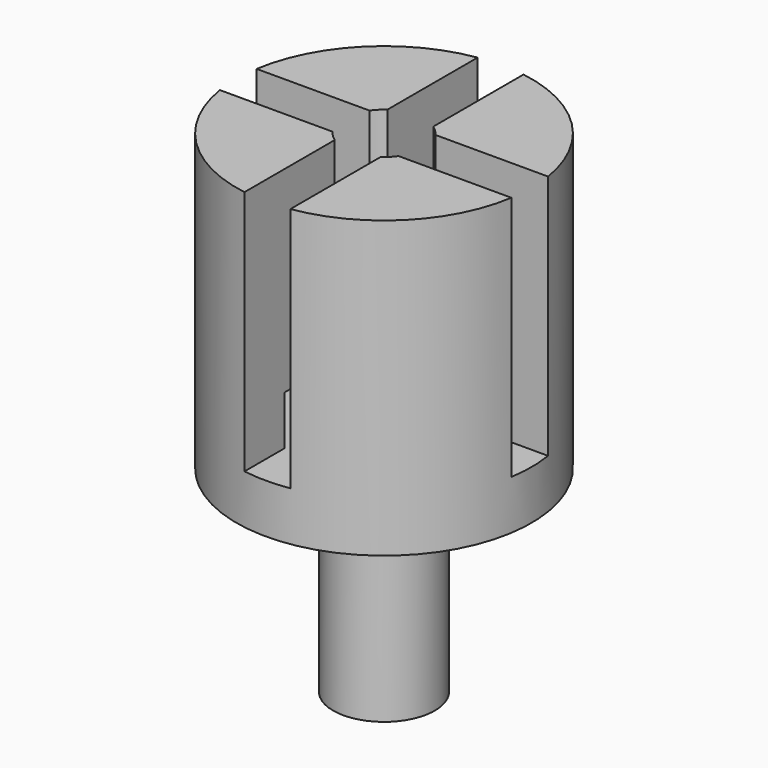
from build123d import *

# Parameters (mm, degrees)
F2_W     = 2.8
F2_H     = 7.3
F2_W_2   = 7.3
F2_H_2   = 2.8
F3_DEPTH = 15


with BuildPart() as f1:
    # F0 (on Front) → F1 (revolve)
    with BuildSketch(Plane.XZ):
        Polygon((-3.1, 0), (0, 0), (0, 15), (-6, 15), (-6, 18), (-2.45, 18), (-2.45, 30), (-9, 30), (-9, 12), (-3.1, 12), align=None)
    revolve(axis=Axis((0, 0, 7.5), (0, 0, -1)))

    # F2 (on face) → F3 (cut)
    with BuildSketch(Plane.XY.offset(30)):
        with Locations((0, 5.355698)):
            Rectangle(F2_W, F2_H)
        Polygon((-1.4, -9.005698), (1.106452, -9.005698), (1.4, -9.005698), (1.4, -1.705698), (-1.4, -1.705698), align=None)
        with Locations((-5.355698, 0)):
            Rectangle(F2_W_2, F2_H_2)
        with Locations((5.355698, 0)):
            Rectangle(F2_W_2, F2_H_2)
    extrude(amount=-F3_DEPTH, mode=Mode.SUBTRACT)


solid = f1.part
